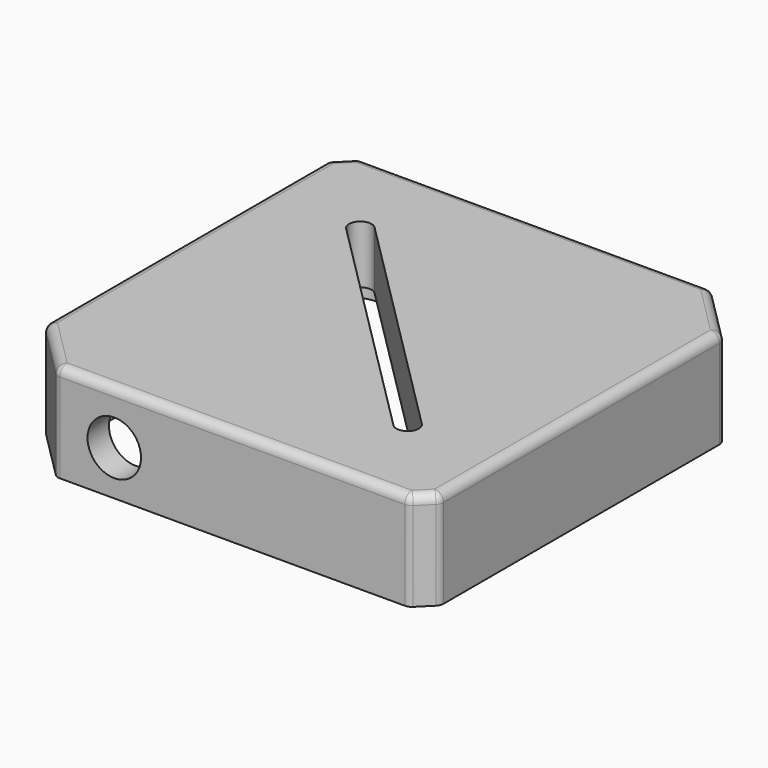
from build123d import *

# Parameters (mm, degrees)
F1_DEPTH = 13
F2_DEPTH = 22
F3_DEPTH = 6
F4_R     = 2
F6_D     = 12
F6_DEPTH = 32
F6_TIP   = 3.6051637142
F7_ANGLE = 180
F9_D     = 12
F9_DEPTH = 35
F9_TIP   = 3.6051637142


with BuildPart() as f1:
    # F0 (on Top) → F1 (new body)
    with BuildSketch(Plane.XY):
        with BuildLine():
            ThreePointArc((26.0064161154, 8), (29.6673325286, 9.0163082132), (32.2804495808, 11.7743529264))
            Line((32.2804495808, 11.7743529264), (84.0861041215, 63.5800074671))
            ThreePointArc((84.0861041215, 63.5800074671), (86.1981822316, 65.1823937822), (87, 67.7093690715))
            Line((87, 67.7093690715), (87, 81))
            ThreePointArc((87, 81), (85.2426406871, 85.2426406871), (81, 87))
            Line((81, 87), (54.36097458, 87))
            ThreePointArc((54.36097458, 87), (58.1513332181, 83.3053678491), (57.5414087508, 78.0475054052))
            Line((57.5414087508, 78.0475054052), (17.2557162005, 37.7618128549))
            ThreePointArc((17.2557162005, 37.7618128549), (11.6428097519, 37.1404544076), (8, 41.455630213))
            Line((8, 41.455630213), (8, 14))
            ThreePointArc((8, 14), (9.7573593129, 9.7573593129), (14, 8))
            Line((14, 8), (26.0064161154, 8))
        make_face()
        with BuildLine():
            ThreePointArc((72.2487373415, 75.7842712475), (75.7842712475, 75.7842712475), (75.7842712475, 72.2487373415))
            Line((75.7842712475, 72.2487373415), (22.7512626585, 19.2157287525))
            ThreePointArc((22.7512626585, 19.2157287525), (19.2157287525, 19.2157287525), (19.2157287525, 22.7512626585))
            Line((19.2157287525, 22.7512626585), (72.2487373415, 75.7842712475))
        make_face(mode=Mode.SUBTRACT)
    extrude(amount=F1_DEPTH)

    # F0 (on Top) → F2 (join)
    with BuildSketch(Plane.XY):
        Polygon((0, 4), (4, 0), (83, 0), (95, 12), (95, 91), (91, 95), (12, 95), (0, 83), align=None)
        with BuildLine():
            Line((84.0861041215, 63.5800074671), (32.2804495808, 11.7743529264))
            ThreePointArc((32.2804495808, 11.7743529264), (29.6673325286, 9.0163082132), (26.0064161154, 8))
            Line((26.0064161154, 8), (14, 8))
            ThreePointArc((14, 8), (9.7573593129, 9.7573593129), (8, 14))
            Line((8, 14), (8, 41.455630213))
            Line((8, 41.455630213), (8, 43.6620265245))
            ThreePointArc((8, 43.6620265245), (6.6419072577, 45.3944081465), (6, 47.5))
            Line((6, 47.5), (6, 72.5))
            ThreePointArc((6, 72.5), (6.5227744249, 74.9494897428), (8, 76.972135955))
            Line((8, 76.972135955), (8, 83.1905249807))
            ThreePointArc((8, 83.1905249807), (9.2565835097, 86.8647595949), (12.5, 89))
            Line((12.5, 89), (37.5, 89))
            ThreePointArc((37.5, 89), (39.9494897428, 88.4772255751), (41.972135955, 87))
            Line((41.972135955, 87), (54.36097458, 87))
            Line((54.36097458, 87), (81, 87))
            ThreePointArc((81, 87), (85.2426406871, 85.2426406871), (87, 81))
            Line((87, 81), (87, 67.7093690715))
            ThreePointArc((87, 67.7093690715), (86.1981822316, 65.1823937822), (84.0861041215, 63.5800074671))
        make_face(mode=Mode.SUBTRACT)
    extrude(amount=F2_DEPTH)

    # F0 (on Top) → F3 (join)
    with BuildSketch(Plane.XY):
        with BuildLine():
            Line((8, 43.6620265245), (8, 41.455630213))
            ThreePointArc((8, 41.455630213), (11.6428097519, 37.1404544076), (17.2557162005, 37.7618128549))
            Line((17.2557162005, 37.7618128549), (57.5414087508, 78.0475054052))
            ThreePointArc((57.5414087508, 78.0475054052), (58.1513332181, 83.3053678491), (54.36097458, 87))
            Line((54.36097458, 87), (41.972135955, 87))
            ThreePointArc((41.972135955, 87), (39.9494897428, 88.4772255751), (37.5, 89))
            Line((37.5, 89), (12.5, 89))
            ThreePointArc((12.5, 89), (9.2565835097, 86.8647595949), (8, 83.1905249807))
            Line((8, 83.1905249807), (8, 76.972135955))
            ThreePointArc((8, 76.972135955), (6.5227744249, 74.9494897428), (6, 72.5))
            Line((6, 72.5), (6, 47.5))
            ThreePointArc((6, 47.5), (6.6419072577, 45.3944081465), (8, 43.6620265245))
        make_face()
    extrude(amount=F3_DEPTH)

    # F4
    f4_edges = [f1.edges().sort_by_distance(p)[0] for p in [
        (51.5, 95, 0),
        (91, 95, 11),
        (95, 91, 11),
        (95, 51.5, 0),
        (93, 93, 0),
        (89, 6, 0),
        (83, 0, 11),
        (95, 12, 11),
        (43.5, 0, 0),
        (4, 0, 11),
        (2, 2, 0),
        (0, 4, 11),
        (0, 43.5, 0),
        (6, 89, 0),
        (0, 83, 11),
        (12, 95, 11),
    ]]
    fillet(f4_edges, radius=F4_R)

    # F6
    with Locations(Plane(origin=(0, 0, 0), x_dir=(0, -1, 0), z_dir=(-1, 0, 0))):
        with Locations((-60, 12)):
            Hole(F6_D / 2, depth=F6_DEPTH)
            with Locations((0, 0, -(F6_DEPTH + F6_TIP / 2))):  # 118° drill point
                Cone(0, F6_D / 2, F6_TIP, mode=Mode.SUBTRACT)


with BuildPart() as f1_1:
    # F7: moved
    add(f1.part.rotate(Axis((43.5, 2, 0), (-1, 0, 0)), F7_ANGLE))

    # F9
    with Locations(Plane.XZ.offset(91)):
        with Locations((25, -12)):
            Hole(F9_D / 2, depth=F9_DEPTH)
            with Locations((0, 0, -(F9_DEPTH + F9_TIP / 2))):  # 118° drill point
                Cone(0, F9_D / 2, F9_TIP, mode=Mode.SUBTRACT)


solid = f1_1.part
